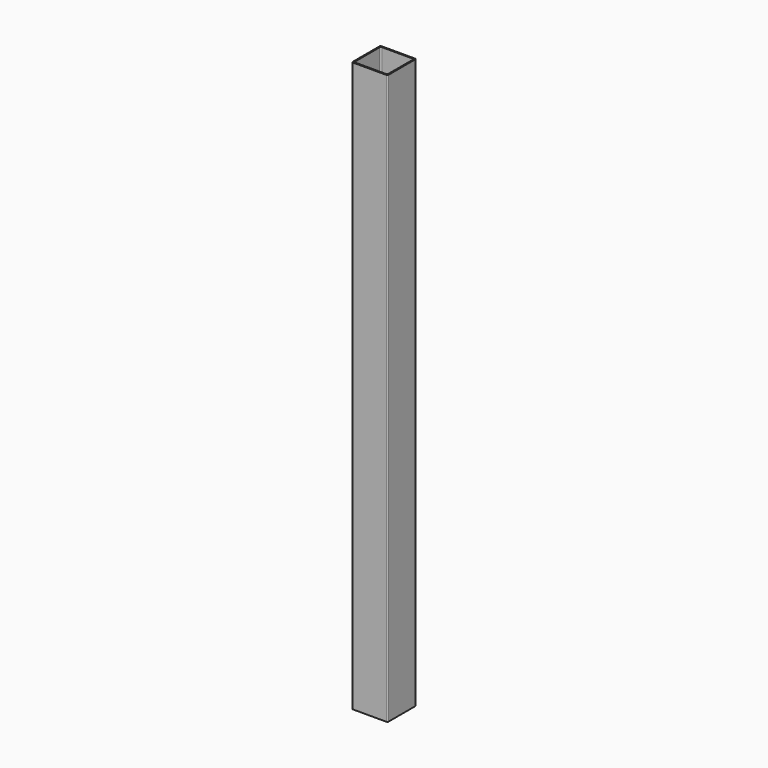
from build123d import *

# Parameters (mm, degrees)
F1_DEPTH = 812.8


with BuildPart() as f1:
    # F0 (on Top) → F1 (new body)
    with BuildSketch(Plane.XY):
        with BuildLine():
            Line((-23.749, -25.4), (23.749, -25.4))
            ThreePointArc((23.749, -25.4), (24.916433, -24.916433), (25.4, -23.749))
            Line((25.4, -23.749), (25.4, 23.749))
            ThreePointArc((25.4, 23.749), (24.916433, 24.916433), (23.749, 25.4))
            Line((23.749, 25.4), (-23.749, 25.4))
            ThreePointArc((-23.749, 25.4), (-24.916433, 24.916433), (-25.4, 23.749))
            Line((-25.4, 23.749), (-25.4, -23.749))
            ThreePointArc((-25.4, -23.749), (-24.916433, -24.916433), (-23.749, -25.4))
        make_face()
        with BuildLine():
            Line((-22.098, 23.749), (22.098, 23.749))
            ThreePointArc((22.098, 23.749), (23.265433, 23.265433), (23.749, 22.098))
            Line((23.749, 22.098), (23.749, -22.098))
            ThreePointArc((23.749, -22.098), (23.265433, -23.265433), (22.098, -23.749))
            Line((22.098, -23.749), (-22.098, -23.749))
            ThreePointArc((-22.098, -23.749), (-23.265433, -23.265433), (-23.749, -22.098))
            Line((-23.749, -22.098), (-23.749, 22.098))
            ThreePointArc((-23.749, 22.098), (-23.265433, 23.265433), (-22.098, 23.749))
        make_face(mode=Mode.SUBTRACT)
    extrude(amount=F1_DEPTH)


solid = f1.part
